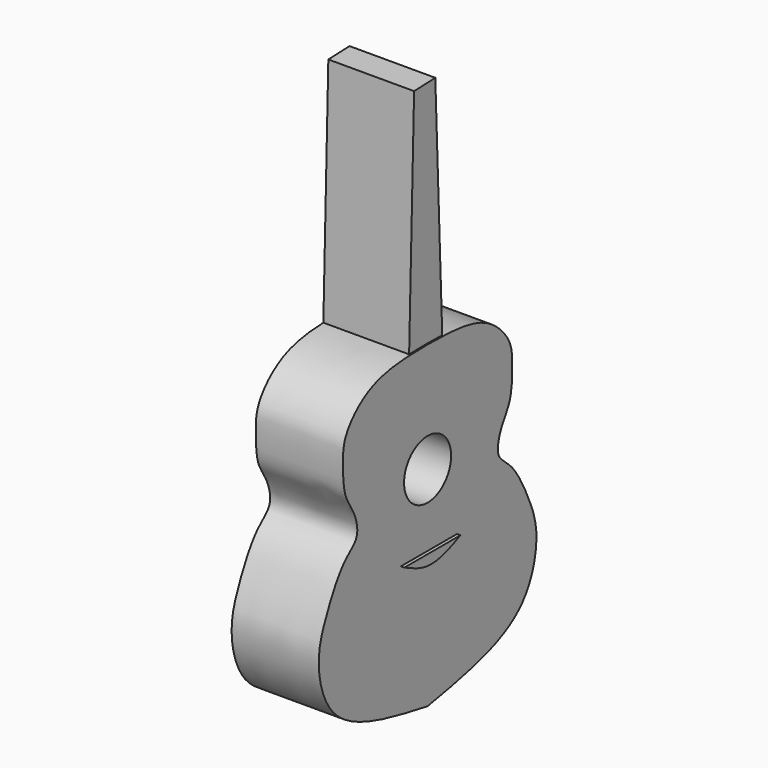
from build123d import *

# Parameters (mm, degrees)
F1_DEPTH = 25.4
F2_R     = 8.5768061458
F3_DEPTH = 15
F6_DEPTH = 1
F8_DEPTH = 25


with BuildPart() as f1:
    # F0 (on Right) → F1 (new body)
    with BuildSketch(Plane.YZ):
        with BuildLine():
            Line((0, -60.7944987714), (0, 32.0125631988))
            add(Edge.make_bspline(
                [(0, 32.0125631988), (-7.3036702232, 31.9420760834), (-20.3611388862, 31.8160595365), (-30.6828455354, 21.3585702987), (-30.9063159863, 14.3012698923), (-30.7067835333, 5.1752849671), (-26.7228113585, 0.5257069547), (-24.4520788672, -7.5651113822), (-31.2246939632, -10.9279425278), (-37.4172531202, -23.2003637503), (-40.9733174943, -33.2920942017), (-35.6477963876, -54.4262244109), (-13.1789947885, -58.4401469429), (0, -60.7944987714)],
                knots=[0, 0, 0, 0, 0.1179398262, 0.2108522889, 0.2791652984, 0.3555064965, 0.4210198143, 0.4893328078, 0.5555453916, 0.6506809193, 0.7368076045, 0.8456254468, 1, 1, 1, 1], degree=3))
        make_face()
        with BuildLine():
            add(Edge.make_bspline(
                [(0, 32.0125631988), (7.3036702232, 31.9420760834), (20.3611388862, 31.8160595365), (30.6828455354, 21.3585702987), (30.9063159863, 14.3012698923), (30.7067835333, 5.1752849671), (26.7228113585, 0.5257069547), (24.4520788672, -7.5651113822), (31.2246939632, -10.9279425278), (37.4172531202, -23.2003637503), (40.9733174943, -33.2920942017), (35.6477963876, -54.4262244109), (13.1789947885, -58.4401469429), (0, -60.7944987714)],
                knots=[0, 0, 0, 0, 0.1179398262, 0.2108522889, 0.2791652984, 0.3555064965, 0.4210198143, 0.4893328078, 0.5555453916, 0.6506809193, 0.7368076045, 0.8456254468, 1, 1, 1, 1], degree=3))
            Line((0, 32.0125631988), (0, -60.7944987714))
        make_face()
    extrude(amount=F1_DEPTH)

    # F2 (on face) → F3 (cut)
    with BuildSketch(Plane.YZ.offset(25.4)):
        Circle(F2_R)
    extrude(amount=-F3_DEPTH, mode=Mode.SUBTRACT)

    # F5 (on face) → F6 (join)
    with BuildSketch(Plane.YZ.offset(25.4)):
        with BuildLine():
            Line((10.7019338757, -20.9457296878), (-9.7146676853, -20.9457296878))
            add(Edge.make_bspline(
                [(-9.7146676853, -20.9457296878), (-8.0467335993, -21.7655172879), (-4.8148289392, -23.3539945468), (0.0056676819, -24.3910912064), (5.3933850842, -23.3610307739), (8.9045674362, -21.7635014149), (10.7019338757, -20.9457296878)],
                knots=[0, 0, 0, 0, 0.2523426625, 0.4889566283, 0.7383980343, 1, 1, 1, 1], degree=3))
        make_face()
    extrude(amount=F6_DEPTH)

    # F7 (on face) → F8 (join)
    with BuildSketch(Plane(origin=(0, 0, 0), x_dir=(0, -1, 0), z_dir=(-1, 0, 0))):
        Polygon((-3.3067306504, 98.9878848195), (-6.4451443031, 15.8198401332), (6.6585242748, 16.0758048296), (4.4166389194, 98.6964372017), align=None)
    extrude(amount=-F8_DEPTH)


solid = f1.part
